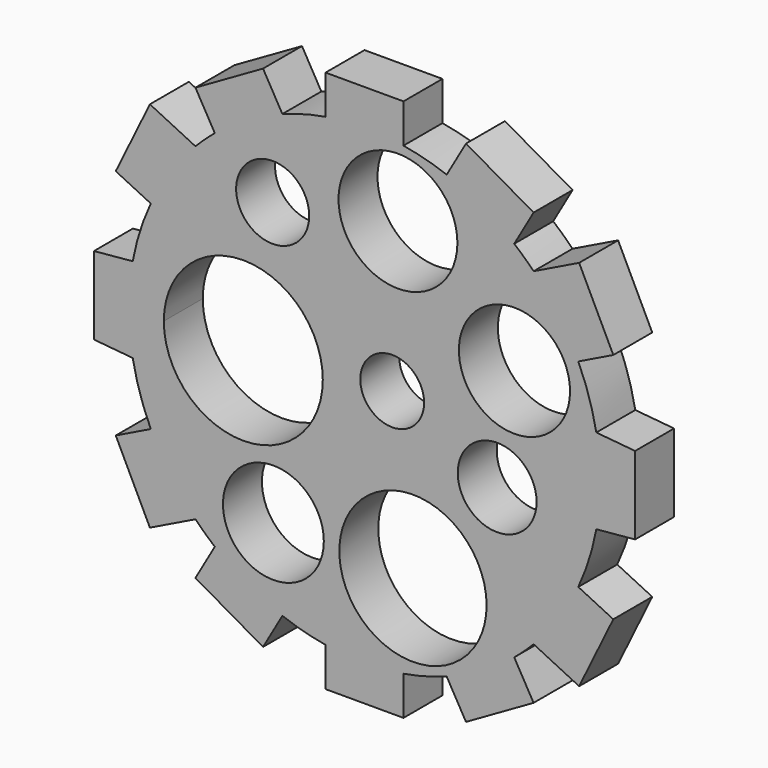
from build123d import *

# Parameters (mm, degrees)
F1_DEPTH = 12.7
F3_DEPTH = 25.4
F4_DEPTH = 25.4
F5_R     = 9.525927
F5_R_2   = 15.499369
F5_R_3   = 13.150127
F5_R_4   = 19.204473
F5_R_5   = 8.319425
F6_DEPTH = 25.4
F7_R     = 14.492161
F7_R_2   = 10.279788
F8_DEPTH = 25.4


with BuildPart() as f1:
    # F0 (on Front) → F1 (new body)
    with BuildSketch(Plane.XZ):
        with BuildLine():
            Line((-64.870612, 30.334717), (-55.738205, 25.88222))
            ThreePointArc((-55.738205, 25.88222), (-58.558762, 18.64157), (-60.443056, 11.102871))
            Line((-60.443056, 11.102871), (-70.559211, 10.16))
            Line((-70.559211, 10.16), (-70.559211, 0))
            Line((-70.559211, 0), (-70.559211, -10.16))
            Line((-70.559211, -10.16), (-60.443056, -11.102871))
            ThreePointArc((-60.443056, -11.102871), (-58.558762, -18.64157), (-55.738205, -25.88222))
            Line((-55.738205, -25.88222), (-64.870612, -30.334717))
            Line((-64.870612, -30.334717), (-55.965618, -48.599532))
            Line((-55.965618, -48.599532), (-44.09037, -42.809766))
            ThreePointArc((-44.09037, -42.809766), (-41.628099, -45.207722), (-39.035619, -47.464273))
            Line((-39.035619, -47.464273), (-44.09037, -56.27762))
            Line((-44.09037, -56.27762), (-26.463675, -66.387122))
            Line((-26.463675, -66.387122), (-21.423516, -57.599216))
            ThreePointArc((-21.423516, -57.599216), (-15.863285, -59.371651), (-10.16, -60.608672))
            Line((-10.16, -60.608672), (-10.16, -70.768672))
            Line((-10.16, -70.768672), (0, -70.768672))
            Line((0, -70.768672), (10.16, -70.768672))
            Line((10.16, -70.768672), (10.16, -60.608672))
            ThreePointArc((10.16, -60.608672), (15.863285, -59.371651), (21.423516, -57.599216))
            Line((21.423516, -57.599216), (26.463675, -66.387122))
            Line((26.463675, -66.387122), (44.09037, -56.27762))
            Line((44.09037, -56.27762), (39.035619, -47.464273))
            ThreePointArc((39.035619, -47.464273), (41.628099, -45.207722), (44.09037, -42.809766))
            Line((44.09037, -42.809766), (55.965618, -48.599532))
            Line((55.965618, -48.599532), (64.870612, -30.334717))
            Line((64.870612, -30.334717), (55.738205, -25.88222))
            ThreePointArc((55.738205, -25.88222), (58.558762, -18.64157), (60.443056, -11.102871))
            Line((60.443056, -11.102871), (70.559211, -10.16))
            Line((70.559211, -10.16), (70.559211, 0))
            Line((70.559211, 0), (70.559211, 10.16))
            Line((70.559211, 10.16), (60.443056, 11.102871))
            ThreePointArc((60.443056, 11.102871), (58.558762, 18.64157), (55.738205, 25.88222))
            Line((55.738205, 25.88222), (64.870612, 30.334717))
            Line((64.870612, 30.334717), (55.965618, 48.599532))
            Line((55.965618, 48.599532), (44.09037, 42.809766))
            ThreePointArc((44.09037, 42.809766), (41.628099, 45.207722), (39.035619, 47.464273))
            Line((39.035619, 47.464273), (44.09037, 56.27762))
            Line((44.09037, 56.27762), (26.463675, 66.387122))
            Line((26.463675, 66.387122), (21.423516, 57.599216))
            ThreePointArc((21.423516, 57.599216), (15.863285, 59.371651), (10.16, 60.608672))
            Line((10.16, 60.608672), (10.16, 70.768672))
            Line((10.16, 70.768672), (0, 70.768672))
            Line((0, 70.768672), (-10.16, 70.768672))
            Line((-10.16, 70.768672), (-10.16, 60.608672))
            ThreePointArc((-10.16, 60.608672), (-15.863285, 59.371651), (-21.423516, 57.599216))
            Line((-21.423516, 57.599216), (-26.463675, 66.387122))
            Line((-26.463675, 66.387122), (-44.09037, 56.27762))
            Line((-44.09037, 56.27762), (-39.035619, 47.464273))
            ThreePointArc((-39.035619, 47.464273), (-41.628099, 45.207722), (-44.09037, 42.809766))
            Line((-44.09037, 42.809766), (-55.965618, 48.599532))
            Line((-55.965618, 48.599532), (-64.870612, 30.334717))
        make_face()
    extrude(amount=F1_DEPTH)

    # F2 (on face) → F3 (cut)
    with BuildSketch(Plane.XZ.offset(12.7)):
        with BuildLine():
            ThreePointArc((-52.337367, 0), (-31.610057, -20.72731), (-10.882746, 0))
            ThreePointArc((-10.882746, 0), (-31.610057, 20.72731), (-52.337367, 0))
        make_face()
    extrude(amount=-F3_DEPTH, mode=Mode.SUBTRACT)

    # F2 (on face) → F4 (cut)
    with BuildSketch(Plane.XZ.offset(12.7)):
        with BuildLine():
            ThreePointArc((-52.337367, 0), (-31.610057, -20.72731), (-10.882746, 0))
            ThreePointArc((-10.882746, 0), (-31.610057, 20.72731), (-52.337367, 0))
        make_face()
    extrude(amount=-F4_DEPTH, mode=Mode.SUBTRACT)

    # F5 (on face) → F6 (cut)
    with BuildSketch(Plane.XZ.offset(12.7)):
        with Locations((-23.951983, 36.485761)):
            Circle(F5_R)
        with Locations((8.722895, 42.809766)):
            Circle(F5_R_2)
        with Locations((-23.76237, -36.997106)):
            Circle(F5_R_3)
        with Locations((12.633157, -37.899476)):
            Circle(F5_R_4)
        with Locations((7.218948, 3.308684)):
            Circle(F5_R_5)
    extrude(amount=-F6_DEPTH, mode=Mode.SUBTRACT)

    # F7 (on face) → F8 (cut)
    with BuildSketch(Plane.XZ.offset(12.7)):
        with Locations((39.102633, 18.348159)):
            Circle(F7_R)
        with Locations((34.590792, -9.926053)):
            Circle(F7_R_2)
    extrude(amount=-F8_DEPTH, mode=Mode.SUBTRACT)


solid = f1.part
